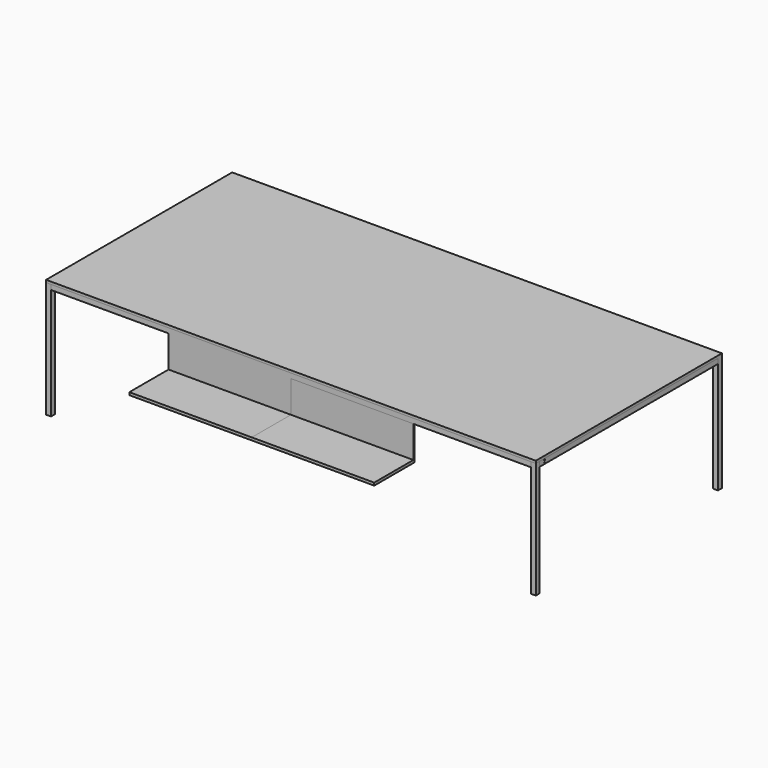
from build123d import *

# Parameters (mm, degrees)
F0_W      = 4000
F0_H      = 1900
F1_DEPTH  = 10
F2_W      = 40
F2_H      = 950
F3_DEPTH  = 40
F4_W      = 40
F4_H      = 950
F5_DEPTH  = 40
F6_W      = 40
F6_H      = 950
F7_DEPTH  = 40
F8_W      = 40
F8_H      = 950
F9_DEPTH  = 40
F10_W     = 40
F10_H     = 40
F11_DEPTH = 3920
F12_W     = 40
F12_H     = 40
F13_DEPTH = 3920
F14_W     = 40
F14_H     = 40
F15_DEPTH = 1820
F16_W     = 40
F16_H     = 40
F17_DEPTH = 1820
F18_W     = 1000
F18_H     = 260
F19_DEPTH = 10
F20_W     = 40
F20_H     = 910
F21_DEPTH = 40
F22_W     = 1000
F22_H     = 22
F23_DEPTH = 410
F25_R     = 5
F26_DEPTH = 26
F27_R     = 5
F28_DEPTH = 25
F29_R     = 5
F30_DEPTH = 25
F31_R     = 5
F32_DEPTH = 25
F33_R     = 5
F34_DEPTH = 25


with BuildPart() as f1:
    # F0 (on Top) → F1 (new body, symmetric)
    with BuildSketch(Plane.XY):
        with Locations((-4.471272, -525.077287)):
            Rectangle(F0_W, F0_H)
    extrude(amount=F1_DEPTH, both=True)

    # F4 (on face) → F5 (join)
    with BuildSketch(Plane(origin=(0, 424.922713, 0), x_dir=(-1, 0, 0), z_dir=(0, 1, 0))):
        with Locations((-1975.528728, -485)):
            Rectangle(F4_W, F4_H)
    extrude(amount=-F5_DEPTH)


with BuildPart() as f3:
    # F2 (on face) → F3 (new body)
    with BuildSketch(Plane.XZ.offset(1475.077287)):
        with Locations((-1984.471272, -485)):
            Rectangle(F2_W, F2_H)
    extrude(amount=-F3_DEPTH)


with BuildPart() as f7:
    # F6 (on face) → F7 (new body)
    with BuildSketch(Plane.YZ.offset(1995.528728)):
        with Locations((-1455.077287, -485)):
            Rectangle(F6_W, F6_H)
    extrude(amount=-F7_DEPTH)


with BuildPart() as f9:
    # F8 (on face) → F9 (new body)
    with BuildSketch(Plane(origin=(0, 424.922713, 0), x_dir=(-1, 0, 0), z_dir=(0, 1, 0))):
        with Locations((1984.471272, -485)):
            Rectangle(F8_W, F8_H)
    extrude(amount=-F9_DEPTH)


with BuildPart() as f11:
    # F10 (on face) → F11 (new body, through all)
    with BuildSketch(Plane.YZ.offset(-1964.471272)):
        with Locations((-1455.077287, -30)):
            Rectangle(F10_W, F10_H)
    extrude(amount=F11_DEPTH)

    # F18 (on face) → F19 (join)
    with BuildSketch(Plane.XZ.offset(1475.077287)):
        with Locations((495.528728, -180)):
            Rectangle(F18_W, F18_H)
    extrude(amount=-F19_DEPTH)

    # F22 (on face) → F23 (join)
    with BuildSketch(Plane(origin=(0, -1465.077287, 0), x_dir=(-1, 0, 0), z_dir=(0, 1, 0))):
        with Locations((-495.528728, -321)):
            Rectangle(F22_W, F22_H)
    extrude(amount=-F23_DEPTH)


with BuildPart() as f13:
    # F12 (on face) → F13 (new body, through all)
    with BuildSketch(Plane(origin=(1955.528728, 0, 0), x_dir=(0, -1, 0), z_dir=(-1, 0, 0))):
        with Locations((-404.922713, -30)):
            Rectangle(F12_W, F12_H)
    extrude(amount=F13_DEPTH)

    # F20 (on face) → F21 (join)
    with BuildSketch(Plane(origin=(0, 424.922713, 0), x_dir=(-1, 0, 0), z_dir=(0, 1, 0))):
        with Locations((20, -505)):
            Rectangle(F20_W, F20_H)
    extrude(amount=-F21_DEPTH)

    # F29 (on face) → F30 (cut)
    with BuildSketch(Plane(origin=(0, 424.922713, 0), x_dir=(-1, 0, 0), z_dir=(0, 1, 0))):
        with Locations((1914.471272, -20)):
            Circle(F29_R)
        with Locations((1914.471272, -40)):
            Circle(F29_R)
    extrude(amount=-F30_DEPTH, mode=Mode.SUBTRACT)

    # F31 (on face) → F32 (cut)
    with BuildSketch(Plane(origin=(0, 424.922713, 0), x_dir=(-1, 0, 0), z_dir=(0, 1, 0))):
        with Locations((90, -20)):
            Circle(F31_R)
        with Locations((90, -40)):
            Circle(F31_R)
    extrude(amount=-F32_DEPTH, mode=Mode.SUBTRACT)

    # F33 (on face) → F34 (cut)
    with BuildSketch(Plane(origin=(0, 424.922713, 0), x_dir=(-1, 0, 0), z_dir=(0, 1, 0))):
        with Locations((-1905.528728, -20)):
            Circle(F33_R)
        with Locations((-1905.528728, -40)):
            Circle(F33_R)
    extrude(amount=-F34_DEPTH, mode=Mode.SUBTRACT)


with BuildPart() as f15:
    # F14 (on face) → F15 (new body, through all)
    with BuildSketch(Plane.XZ.offset(-384.922713)):
        with Locations((-1984.471272, -30)):
            Rectangle(F14_W, F14_H)
    extrude(amount=F15_DEPTH)

    # F27 (on face) → F28 (cut)
    with BuildSketch(Plane(origin=(-2004.471272, 0, 0), x_dir=(0, -1, 0), z_dir=(-1, 0, 0))):
        with Locations((1385.077287, -20)):
            Circle(F27_R)
        with Locations((1385.077287, -40)):
            Circle(F27_R)
    extrude(amount=-F28_DEPTH, mode=Mode.SUBTRACT)


with BuildPart() as f17:
    # F16 (on face) → F17 (new body, through all)
    with BuildSketch(Plane(origin=(0, -1435.077287, 0), x_dir=(-1, 0, 0), z_dir=(0, 1, 0))):
        with Locations((-1975.528728, -30)):
            Rectangle(F16_W, F16_H)
    extrude(amount=F17_DEPTH)

    # F25 (on face) → F26 (cut)
    with BuildSketch(Plane.YZ.offset(1995.528728)):
        with Locations((-1385.077287, -20)):
            Circle(F25_R)
        with Locations((-1385.077287, -40)):
            Circle(F25_R)
    extrude(amount=-F26_DEPTH, mode=Mode.SUBTRACT)


with BuildPart() as f24_1:
    # F24: instance of F11
    add(f11.part.mirror(Plane(origin=(-4.471272, -1625.326857, -289.450947), x_dir=(0, -1, 0), z_dir=(-1, 0, 0))))


solid = Compound([f1.part, f3.part, f7.part, f9.part, f11.part, f13.part, f15.part, f17.part, f24_1.part])
